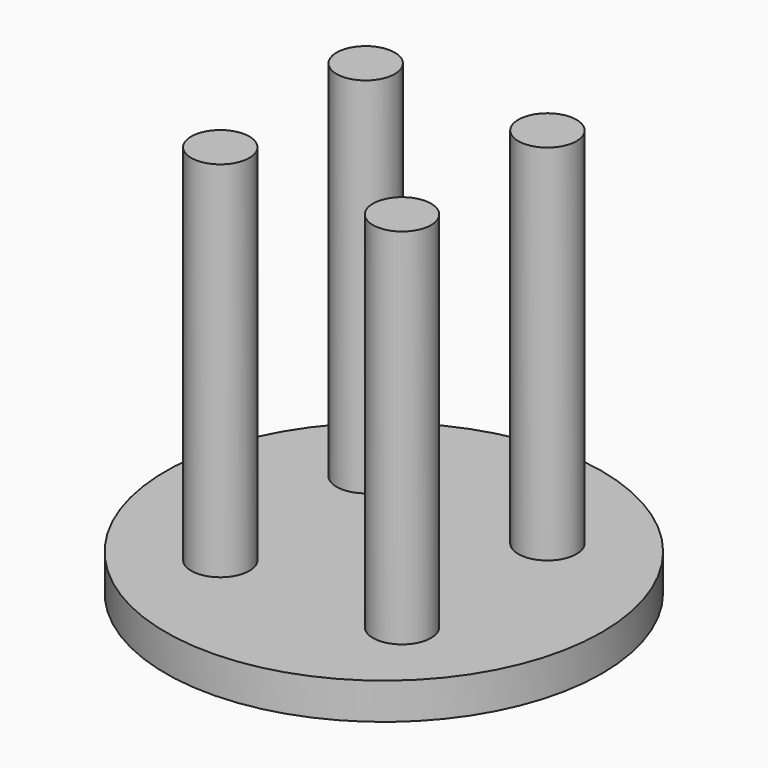
from build123d import *

# Parameters (mm, degrees)
SKETCH_R     = 60
PAD_DEPTH    = 10
SKETCH001_R  = 8
PAD001_DEPTH = 100


with BuildPart() as part:
    # Sketch → Pad (new body)
    with BuildSketch(Plane.XY):
        Circle(SKETCH_R)
    extrude(amount=PAD_DEPTH)

    # Sketch001 (on Face3 of Pad) → Pad001 (join)
    with BuildSketch(Plane.XY.offset(10)):
        with Locations((-25, 25)):
            Circle(SKETCH001_R)
        with Locations((25, 25)):
            Circle(SKETCH001_R)
        with Locations((-25, -25)):
            Circle(SKETCH001_R)
        with Locations((25, -25)):
            Circle(SKETCH001_R)
    extrude(amount=PAD001_DEPTH)


solid = part.part
